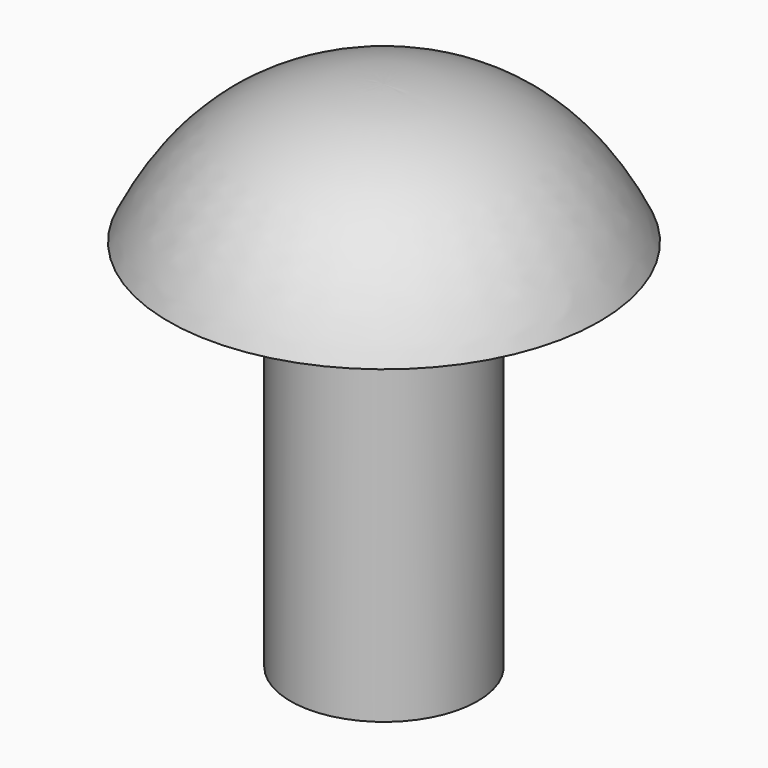
from build123d import *

# Parameters (mm, degrees)
F2_W = 3.1603467651
F2_H = 12.6273096539


with BuildPart() as f1:
    # F0 (on Front) → F1 (revolve)
    with BuildSketch(Plane.XZ):
        with BuildLine():
            Line((0, 9.6553172916), (0, 4.9721689479))
            Line((0, 4.9721689479), (3.175, 4.9721689479))
            Line((3.175, 4.9721689479), (7.2827910981, 4.9721689479))
            add(Edge.make_bspline(
                [(0, 9.6553172916), (2.9781865887, 9.6553172916), (5.5821713968, 8.5219470784), (7.2827910981, 4.9721689479)],
                knots=[0, 0, 0, 0, 8.6585752054, 8.6585752054, 8.6585752054, 8.6585752054], degree=3))
        make_face()
    revolve(axis=Axis((0, 0, 1.8570748846), (0, 0, -1)))


with BuildPart() as f3:
    # F2 (on Front) → F3 (revolve)
    with BuildSketch(Plane.XZ):
        with Locations((1.5801733825, -1.3474959414)):
            Rectangle(F2_W, F2_H)
    revolve(axis=Axis((0, 0, -1.3474959414), (0, 0, 1)))


solid = Compound([f1.part, f3.part])
